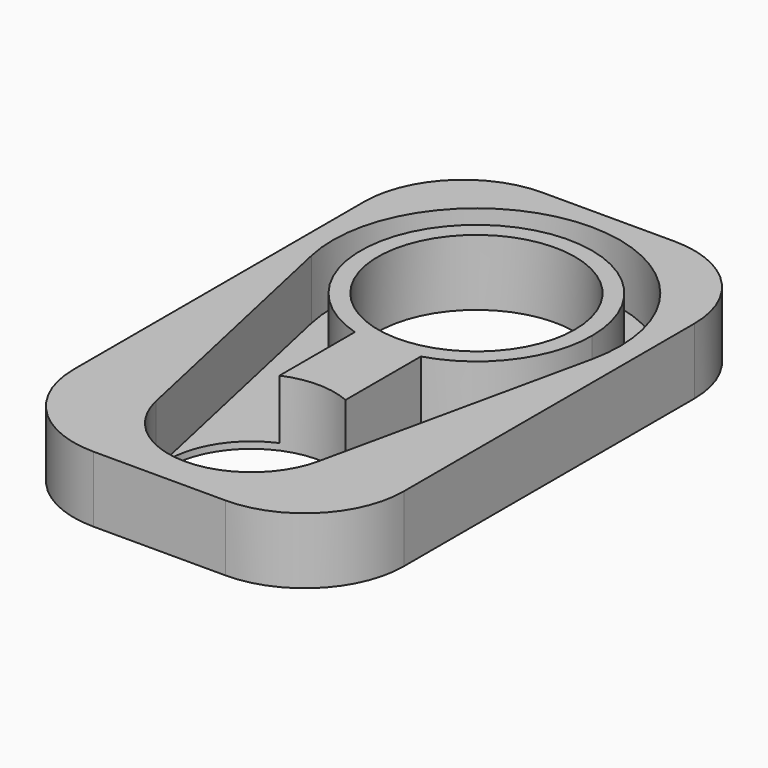
from build123d import *

# Parameters (mm, degrees)
F0_R     = 25.2
F0_R_2   = 29.85
F1_DEPTH = 20
F3_DEPTH = 18


with BuildPart() as f1:
    # F0 (on Top) → F1 (new body)
    with BuildSketch(Plane.XY):
        with BuildLine():
            Line((50, -52.4666666667), (50, 57.5333333333))
            ThreePointArc((50, 57.5333333333), (41.2132034356, 78.7465367689), (20, 87.5333333333))
            Line((20, 87.5333333333), (-20, 87.5333333333))
            ThreePointArc((-20, 87.5333333333), (-41.2132034356, 78.7465367689), (-50, 57.5333333333))
            Line((-50, 57.5333333333), (-50, -52.4666666667))
            ThreePointArc((-50, -52.4666666667), (-41.2132034356, -73.6798701023), (-20, -82.4666666667))
            Line((-20, -82.4666666667), (20, -82.4666666667))
            ThreePointArc((20, -82.4666666667), (41.2132034356, -73.6798701023), (50, -52.4666666667))
        make_face()
        with Locations((0, -47.6666666667)):
            Circle(F0_R, mode=Mode.SUBTRACT)
        with Locations((0, 37.5333333333)):
            Circle(F0_R_2, mode=Mode.SUBTRACT)
    extrude(amount=F1_DEPTH)

    # F2 (on face) → F3 (cut)
    with BuildSketch(Plane.XY.offset(20)):
        with BuildLine():
            Line((24.6118454795, -53.079342723), (42.4847332683, 28.1900234742))
            ThreePointArc((42.4847332683, 28.1900234742), (0, 81.0333333333), (-42.4847332683, 28.1900234742))
            Line((-42.4847332683, 28.1900234742), (-24.6118454795, -53.079342723))
            ThreePointArc((-24.6118454795, -53.079342723), (-22.4316594885, -36.1836072924), (-10, -24.535734995))
            Line((-10, -24.535734995), (-10, 3.9923136708))
            ThreePointArc((-10, 3.9923136708), (-20.9165006634, 65.5957637341), (35, 37.5333333333))
            ThreePointArc((35, 37.5333333333), (28.0624304008, 16.61683267), (10, 3.9923136708))
            Line((10, 3.9923136708), (10, -24.535734995))
            ThreePointArc((10, -24.535734995), (21.0599145297, -33.8275915531), (25.2, -47.6666666667))
            ThreePointArc((25.2, -47.6666666667), (25.0525298731, -50.3889353819), (24.6118454795, -53.079342723))
        make_face()
    extrude(amount=-F3_DEPTH, mode=Mode.SUBTRACT)


solid = f1.part
